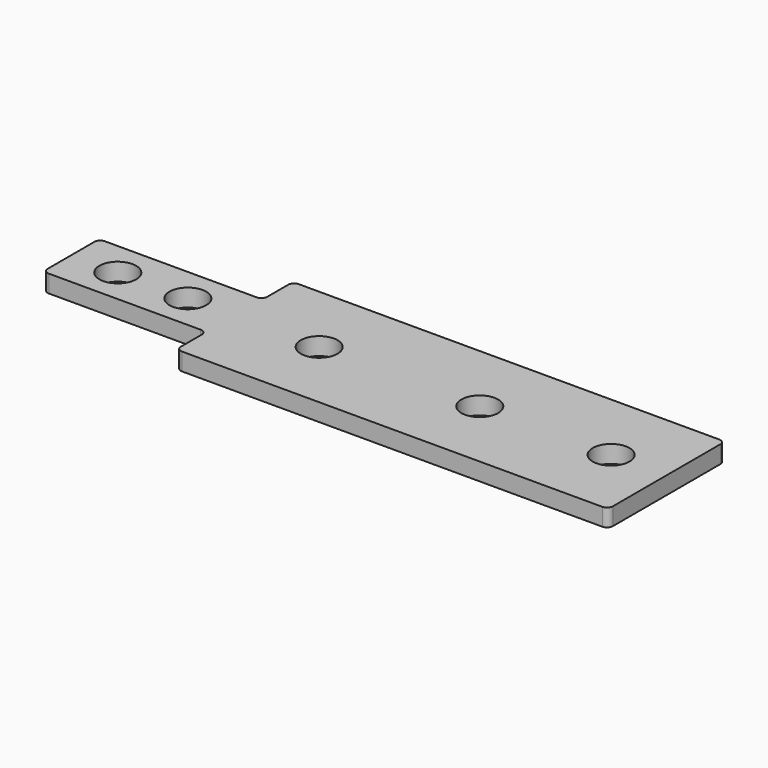
from build123d import *

# Parameters (mm, degrees)
F0_R     = 3.15
F0_W     = 28
F0_H     = 12
F1_DEPTH = 3
F2_R     = 1


with BuildPart() as f1:
    # F0 (on Top) → F1 (new body)
    with BuildSketch(Plane.XY):
        Polygon((74, 12.5), (0, 12.5), (0, 6), (0, -6), (0, -12.5), (74, -12.5), align=None)
        with Locations((14.5, 0)):
            Circle(F0_R, mode=Mode.SUBTRACT)
        with Locations((42, 0)):
            Circle(F0_R, mode=Mode.SUBTRACT)
        with Locations((64.5, 0)):
            Circle(F0_R, mode=Mode.SUBTRACT)
        with Locations((-14, 0)):
            Rectangle(F0_W, F0_H)
        with Locations((-20, 0)):
            Circle(F0_R, mode=Mode.SUBTRACT)
        with Locations((-8, 0)):
            Circle(F0_R, mode=Mode.SUBTRACT)
    extrude(amount=F1_DEPTH)

    # F2
    f2_edges = [f1.edges().sort_by_distance(p)[0] for p in [
        (-28, 6, 1.5),
        (-28, -6, 1.5),
        (0, 6, 1.5),
        (0, 12.5, 1.5),
        (0, -6, 1.5),
        (0, -12.5, 1.5),
        (74, -12.5, 1.5),
        (74, 12.5, 1.5),
    ]]
    fillet(f2_edges, radius=F2_R)


solid = f1.part
